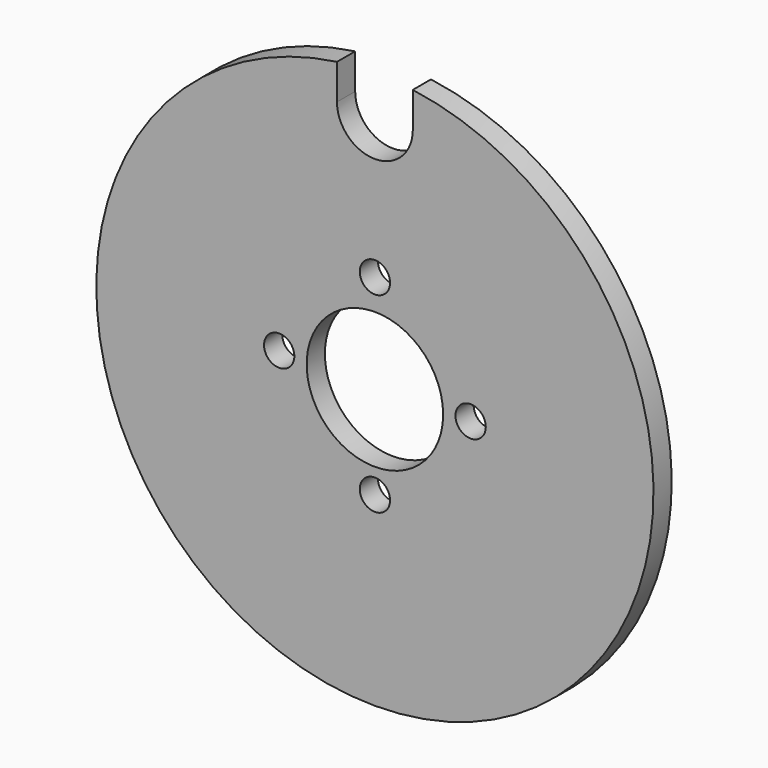
from build123d import *

# Parameters (mm, degrees)
F0_R     = 8
F0_R_2   = 36
F1_DEPTH = 12


with BuildPart() as f1:
    # F0 (on Front) → F1 (new body)
    with BuildSketch(Plane.XZ):
        with BuildLine():
            Line((-20, 127), (-20, 145.633101))
            ThreePointArc((-20, 145.633101), (0, -147), (20, 145.633101))
            Line((20, 145.633101), (20, 127))
            ThreePointArc((20, 127), (0, 107), (-20, 127))
        make_face()
        with Locations((0, -48.927777)):
            Circle(F0_R, mode=Mode.SUBTRACT)
        with Locations((-50.5, 1.572223)):
            Circle(F0_R, mode=Mode.SUBTRACT)
        Circle(F0_R_2, mode=Mode.SUBTRACT)
        with Locations((50.5, 1.572223)):
            Circle(F0_R, mode=Mode.SUBTRACT)
        with Locations((0, 52.072223)):
            Circle(F0_R, mode=Mode.SUBTRACT)
    extrude(amount=F1_DEPTH)


solid = f1.part
